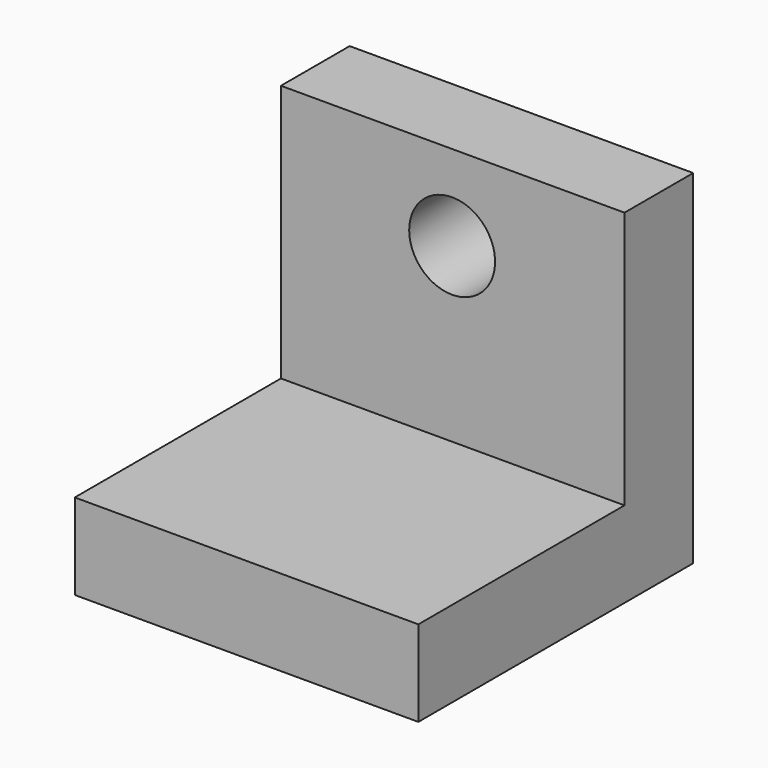
from build123d import *

# Parameters (mm, degrees)
F0_W     = 50.8
F0_H     = 38.1
F1_DEPTH = 12.7
F0_H_2   = 12.7
F2_DEPTH = 50.8
F4_D     = 12.7


with BuildPart() as f1:
    # F0 (on Top) → F1 (new body)
    with BuildSketch(Plane.XY):
        with Locations((-22.669501, 31.400753)):
            Rectangle(F0_W, F0_H)
    extrude(amount=F1_DEPTH)

    # F0 (on Top) → F2 (join)
    with BuildSketch(Plane.XY):
        with Locations((-22.669501, 56.800753)):
            Rectangle(F0_W, F0_H_2)
    extrude(amount=F2_DEPTH)

    # F4 (through all)
    with Locations(Plane.XZ.offset(-50.450753)):
        with Locations((-22.755118, 38.173135)):
            Hole(F4_D / 2)


solid = f1.part
